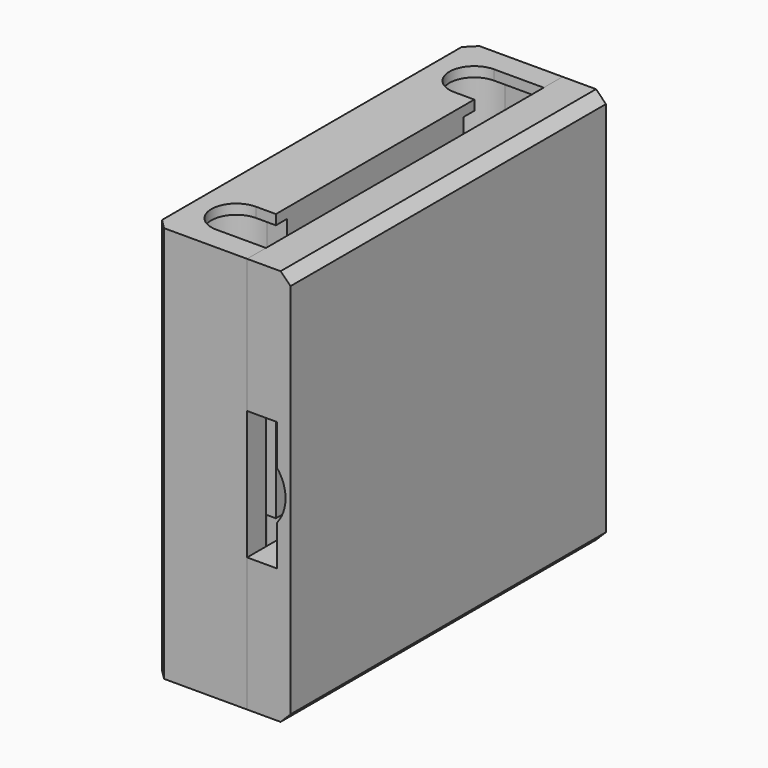
from build123d import *

# Parameters (mm, degrees)
F2_DEPTH = 40
F3_START = 14
F3_DEPTH = 24
F4_START = -14
F4_DEPTH = 24
F6_DEPTH = 24
F7_DEPTH = 39.75


with BuildPart() as f2:
    # F1 (on Top) → F2 (new body, symmetric)
    with BuildSketch(Plane.XY):
        with BuildLine():
            ThreePointArc((-10, 22.25), (-17.75, 30), (-10, 37.75))
            Line((-10, 37.75), (0, 37.75))
            Line((0, 37.75), (0, 39.75))
            Line((0, 39.75), (-10, 39.75))
            Line((-10, 39.75), (-16.75, 39.75))
            Line((-16.75, 39.75), (-18.75, 37.75))
            Line((-18.75, 37.75), (-18.75, -37.75))
            Line((-18.75, -37.75), (-16.75, -39.75))
            Line((-16.75, -39.75), (-10, -39.75))
            Line((-10, -39.75), (0, -39.75))
            Line((0, -39.75), (0, -37.75))
            Line((0, -37.75), (-10, -37.75))
            ThreePointArc((-10, -37.75), (-17.75, -30), (-10, -22.25))
            Line((-10, -22.25), (-6, -22.25))
            Line((-6, -22.25), (-6, 22.25))
            Line((-6, 22.25), (-10, 22.25))
        make_face()
        with BuildLine():
            Line((0, 37.75), (-10, 37.75))
            ThreePointArc((-10, 37.75), (-17.75, 30), (-10, 22.25))
            Line((-10, 22.25), (-6, 22.25))
            Line((-6, 22.25), (-6, 25))
            Line((-6, 25), (-10, 25))
            ThreePointArc((-10, 25), (-15, 30), (-10, 35))
            Line((-10, 35), (0, 35))
            Line((0, 35), (0, 37.75))
        make_face()
        with BuildLine():
            Line((-6, -25), (-6, -22.25))
            Line((-6, -22.25), (-10, -22.25))
            ThreePointArc((-10, -22.25), (-17.75, -30), (-10, -37.75))
            Line((-10, -37.75), (0, -37.75))
            Line((0, -37.75), (0, -35))
            Line((0, -35), (-10, -35))
            ThreePointArc((-10, -35), (-15, -30), (-10, -25))
            Line((-10, -25), (-6, -25))
        make_face()
    extrude(amount=F2_DEPTH, both=True)

    # F1 (on Top) → F3 (cut)
    with BuildSketch(Plane.XY.offset(F3_START)):
        with BuildLine():
            Line((0, 37.75), (-10, 37.75))
            ThreePointArc((-10, 37.75), (-17.75, 30), (-10, 22.25))
            Line((-10, 22.25), (-6, 22.25))
            Line((-6, 22.25), (-6, 25))
            Line((-6, 25), (-10, 25))
            ThreePointArc((-10, 25), (-15, 30), (-10, 35))
            Line((-10, 35), (0, 35))
            Line((0, 35), (0, 37.75))
        make_face()
        with BuildLine():
            Line((-6, -25), (-6, -22.25))
            Line((-6, -22.25), (-10, -22.25))
            ThreePointArc((-10, -22.25), (-17.75, -30), (-10, -37.75))
            Line((-10, -37.75), (0, -37.75))
            Line((0, -37.75), (0, -35))
            Line((0, -35), (-10, -35))
            ThreePointArc((-10, -35), (-15, -30), (-10, -25))
            Line((-10, -25), (-6, -25))
        make_face()
    extrude(amount=F3_DEPTH, mode=Mode.SUBTRACT)

    # F1 (on Top) → F4 (cut)
    with BuildSketch(Plane.XY.offset(F4_START)):
        with BuildLine():
            Line((-6, -25), (-6, -22.25))
            Line((-6, -22.25), (-10, -22.25))
            ThreePointArc((-10, -22.25), (-17.75, -30), (-10, -37.75))
            Line((-10, -37.75), (0, -37.75))
            Line((0, -37.75), (0, -35))
            Line((0, -35), (-10, -35))
            ThreePointArc((-10, -35), (-15, -30), (-10, -25))
            Line((-10, -25), (-6, -25))
        make_face()
        with BuildLine():
            Line((0, 37.75), (-10, 37.75))
            ThreePointArc((-10, 37.75), (-17.75, 30), (-10, 22.25))
            Line((-10, 22.25), (-6, 22.25))
            Line((-6, 22.25), (-6, 25))
            Line((-6, 25), (-10, 25))
            ThreePointArc((-10, 25), (-15, 30), (-10, 35))
            Line((-10, 35), (0, 35))
            Line((0, 35), (0, 37.75))
        make_face()
    extrude(amount=-F4_DEPTH, mode=Mode.SUBTRACT)

    # F5 (on Front) → F6 (cut, symmetric)
    with BuildSketch(Plane.XZ):
        with BuildLine():
            ThreePointArc((6, -4.9053542176), (7.2994006603, -2.604083332), (7.75, 0))
            ThreePointArc((7.75, 0), (7.2994006603, 2.604083332), (6, 4.9053542176))
            ThreePointArc((6, 4.9053542176), (-7.75, 0), (6, -4.9053542176))
        make_face()
    extrude(amount=F6_DEPTH, both=True, mode=Mode.SUBTRACT)


with BuildPart() as f7:
    # F5 (on Front) → F7 (new body, symmetric)
    with BuildSketch(Plane.XZ):
        with BuildLine():
            ThreePointArc((6, 4.9053542176), (7.2994006603, 2.604083332), (7.75, 0))
            ThreePointArc((7.75, 0), (7.2994006603, -2.604083332), (6, -4.9053542176))
            Line((6, -4.9053542176), (6, -13))
            Line((6, -13), (0, -13))
            Line((0, -13), (0, -40))
            Line((0, -40), (6.75, -40))
            Line((6.75, -40), (8.75, -38))
            Line((8.75, -38), (8.75, 38))
            Line((8.75, 38), (6.75, 40))
            Line((6.75, 40), (0, 40))
            Line((0, 40), (0, 13))
            Line((0, 13), (6, 13))
            Line((6, 13), (6, 4.9053542176))
        make_face()
    extrude(amount=F7_DEPTH, both=True)


solid = Compound([f2.part, f7.part])
